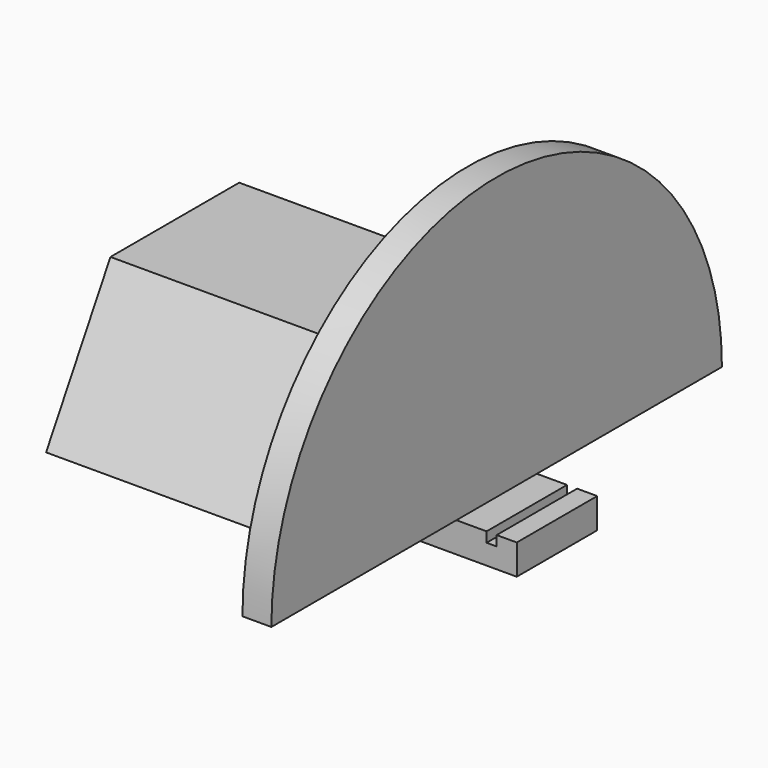
from build123d import *

# Parameters (mm, degrees)
F1_DEPTH  = 18.2626
F4_DEPTH  = 184.9374
F5_DEPTH  = 184.9374
F7_DEPTH  = 18.2626
F9_DEPTH  = 166.6748
F10_W     = 241.3
F10_H     = 63.5
F11_DEPTH = 19.05
F12_W     = 6.35
F12_H     = 6.35
F13_DEPTH = 209.551


with BuildPart() as f1:
    # F0 (on Right) → F1 (new body)
    with BuildSketch(Plane.YZ):
        with BuildLine():
            Line((-177.8, 0), (177.8, 0))
            ThreePointArc((177.8, 0), (0, 177.8), (-177.8, 0))
        make_face()
    extrude(amount=F1_DEPTH)


with BuildPart() as f4:
    # F2 (on face) → F4 (new body, through all)
    with BuildSketch(Plane(origin=(0, 0, 0), x_dir=(0, -1, 0), z_dir=(-1, 0, 0))):
        Polygon((-80.512166, 0), (-40.256083, 69.725581), (-50.8, 87.988181), (-101.6, 0), align=None)
        Polygon((40.256083, 69.725581), (80.512166, 0), (101.6, 0), (50.8, 87.988181), align=None)
    extrude(amount=F4_DEPTH)


with BuildPart() as f5:
    # F2 (on face) → F5 (new body, through all)
    with BuildSketch(Plane(origin=(0, 0, 0), x_dir=(0, -1, 0), z_dir=(-1, 0, 0))):
        Polygon((-50.8, 87.988181), (-40.256083, 69.725581), (40.256083, 69.725581), (50.8, 87.988181), align=None)
    extrude(amount=F5_DEPTH)


with BuildPart() as f7:
    # F6 (on face) → F7 (new body)
    with BuildSketch(Plane(origin=(-184.9374, 0, 0), x_dir=(0, -1, 0), z_dir=(-1, 0, 0))):
        Polygon((40.256083, 69.725581), (-40.256083, 69.725581), (-80.512166, 0), (80.512166, 0), align=None)
    extrude(amount=-F7_DEPTH)


with BuildPart() as f9:
    # F8 (on face) → F9 (new body, through all)
    with BuildSketch(Plane.YZ.offset(-166.6748)):
        Polygon((-69.968249, 18.2626), (-80.512166, 0), (80.512166, 0), (69.968249, 18.2626), align=None)
    extrude(amount=F9_DEPTH)


with BuildPart() as f11:
    # F10 (on face) → F11 (new body)
    with BuildSketch(Plane(origin=(0, 0, 0), x_dir=(1, 0, 0), z_dir=(0, 0, -1))):
        with Locations((-64.2874, 0)):
            Rectangle(F10_W, F10_H)
    extrude(amount=F11_DEPTH)

    # F12 (on face) → F13 (cut, through all)
    with BuildSketch(Plane.XZ.offset(31.75)):
        with Locations((40.4876, -3.175)):
            Rectangle(F12_W, F12_H)
    extrude(amount=-F13_DEPTH, mode=Mode.SUBTRACT)


solid = Compound([f1.part, f4.part, f5.part, f7.part, f9.part, f11.part])
